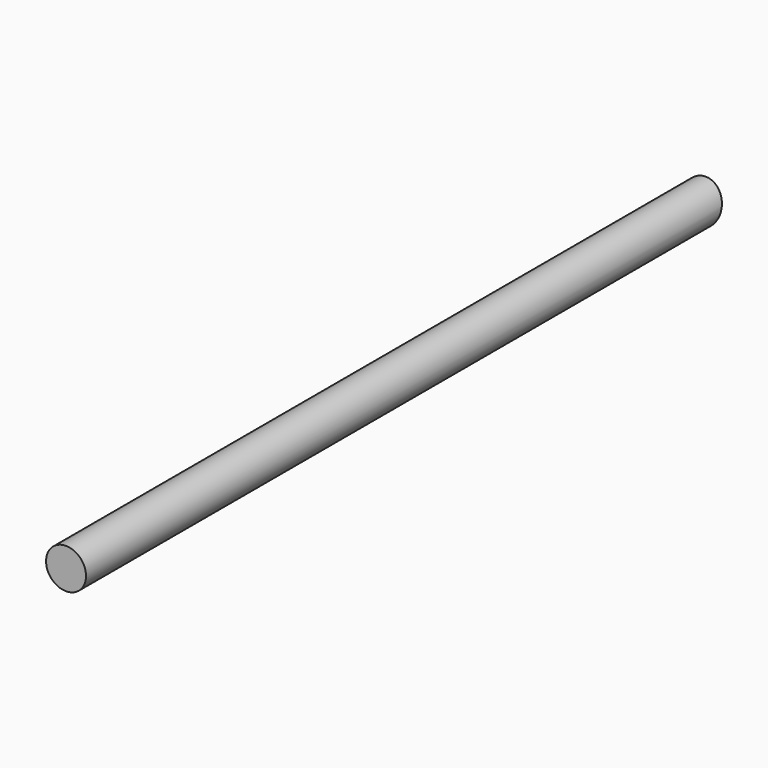
from build123d import *

# Parameters (mm, degrees)
F0_R          = 19.05
F1_DEPTH      = 762
F3_DEPTH      = 127
F3_DEPTH_BACK = 25.4


with BuildPart() as f1:
    # F0 (on Front) → F1 (new body)
    with BuildSketch(Plane.XZ):
        Circle(F0_R)
    extrude(amount=F1_DEPTH)

    # F2 (on Right) → F3 (cut, two sides)
    with BuildSketch(Plane.YZ) as f3_sk:
        Polygon((-15.7306751392, -39.5131205941), (0, -39.5131205941), (0, 19.1945582628), align=None)
    extrude(amount=-F3_DEPTH, mode=Mode.SUBTRACT)
    extrude(f3_sk.sketch, amount=F3_DEPTH_BACK, mode=Mode.SUBTRACT)


solid = f1.part
